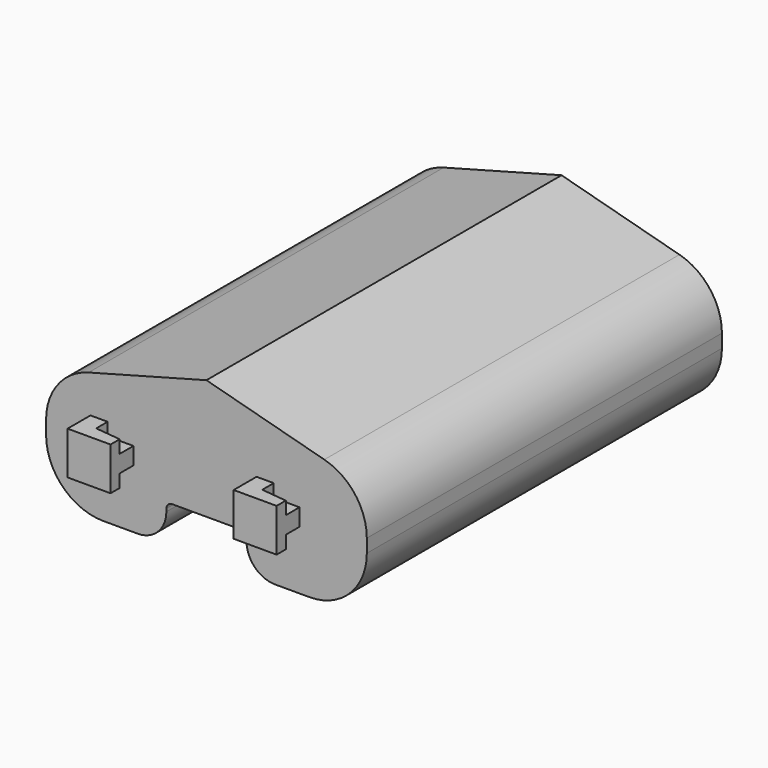
from build123d import *

# Parameters (mm, degrees)
F1_DEPTH  = 77.5
F2_W      = 7.5
F2_H      = 7.5
F3_DEPTH  = 5
F6_DEPTH  = 2.25
F7_DEPTH  = 2.25
F10_DEPTH = 2.25
F11_DEPTH = 2.25


with BuildPart() as f1:
    # F0 (on Front) → F1 (new body)
    with BuildSketch(Plane.XZ):
        with BuildLine():
            ThreePointArc((-28, -6.6598297656), (-25.0710678119, -13.7308975774), (-18, -16.6598297656))
            Line((-18, -16.6598297656), (-12, -16.6598297656))
            ThreePointArc((-12, -16.6598297656), (-8.4644660941, -15.1953636715), (-7, -11.6598297656))
            Line((-7, -11.6598297656), (-7, -11.1598297656))
            ThreePointArc((-7, -11.1598297656), (-6.7071067812, -10.4527229844), (-6, -10.1598297656))
            Line((-6, -10.1598297656), (6, -10.1598297656))
            ThreePointArc((6, -10.1598297656), (6.7071067812, -10.4527229844), (7, -11.1598297656))
            Line((7, -11.1598297656), (7, -11.6598297656))
            ThreePointArc((7, -11.6598297656), (8.4644660941, -15.1953636715), (12, -16.6598297656))
            Line((12, -16.6598297656), (18, -16.6598297656))
            ThreePointArc((18, -16.6598297656), (25.0710678119, -13.7308975774), (28, -6.6598297656))
            Line((28, -6.6598297656), (28, -4.3337819374))
            ThreePointArc((28, -4.3337819374), (25.933271977, 1.7541730344), (20.5873608522, 5.3256985776))
            Line((20.5873608522, 5.3256985776), (0, 10.8401702344))
            Line((0, 10.8401702344), (-20.5873608522, 5.3256985776))
            ThreePointArc((-20.5873608522, 5.3256985776), (-25.933271977, 1.7541730344), (-28, -4.3337819374))
            Line((-28, -4.3337819374), (-28, -6.6598297656))
        make_face()
    extrude(amount=F1_DEPTH)

    # F2 (on face) → F3 (join)
    with BuildSketch(Plane.XZ.offset(77.5)):
        with Locations((-16.5, -4.9098297656)):
            Rectangle(F2_W, F2_H)
        with Locations((12.5, -4.9098297656)):
            Rectangle(F2_W, F2_H)
    extrude(amount=F3_DEPTH)

    # F4 (on face) → F6 (cut)
    with BuildSketch(Plane.XY.offset(-1.1598297656)):
        Polygon((-12.75, -77.5), (-17.25, -77.5), (-17.25, -80), (-12.75, -80.5), align=None)
    extrude(amount=-F6_DEPTH, mode=Mode.SUBTRACT)

    # F5 (on face) → F7 (cut)
    with BuildSketch(Plane.XY.offset(-1.1598297656)):
        Polygon((16.25, -77.5), (11.75, -77.5), (11.75, -80), (16.25, -80.5), align=None)
    extrude(amount=-F7_DEPTH, mode=Mode.SUBTRACT)

    # F8 (on face) → F10 (cut)
    with BuildSketch(Plane(origin=(0, 0, -8.6598297656), x_dir=(1, 0, 0), z_dir=(0, 0, -1))):
        Polygon((11.75, 80), (11.75, 77.5), (16.25, 77.5), (16.25, 80.5), align=None)
    extrude(amount=-F10_DEPTH, mode=Mode.SUBTRACT)

    # F9 (on face) → F11 (cut)
    with BuildSketch(Plane(origin=(0, 0, -8.6598297656), x_dir=(1, 0, 0), z_dir=(0, 0, -1))):
        Polygon((-17.25, 80), (-17.25, 77.5), (-12.75, 77.5), (-12.75, 80.5), align=None)
    extrude(amount=-F11_DEPTH, mode=Mode.SUBTRACT)


solid = f1.part
